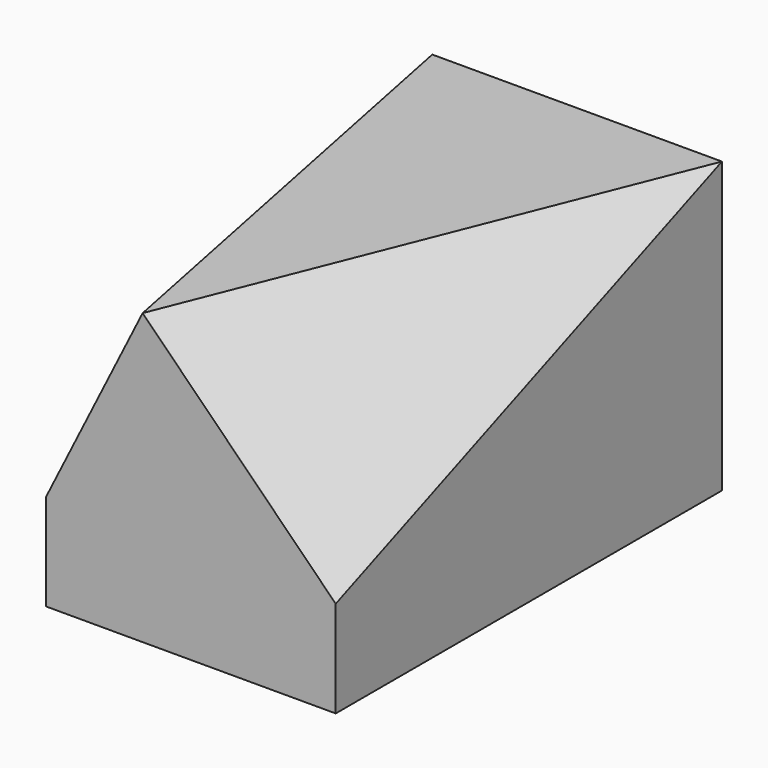
from build123d import *

# Parameters (mm, degrees)
F0_W     = 30
F0_H     = 50
F1_DEPTH = 30


with BuildPart() as f1:
    # F0 (on Top) → F1 (new body)
    with BuildSketch(Plane.XY):
        Rectangle(F0_W, F0_H)
    extrude(amount=F1_DEPTH)

    # F4: sweep along a path in F3
    with BuildLine(Plane.YZ.offset(15)) as f4_path:
        Line((25, 30), (-25, 10))
    # F2 (on face) → F4 (sweep, cut)
    with BuildSketch(Plane.XZ.offset(25)):
        Polygon((15, 30), (-5, 30), (15, 10), align=None)
        Polygon((-15, 30), (-15, 10), (-5, 30), align=None)
    sweep(path=f4_path.line, mode=Mode.SUBTRACT)


solid = f1.part
